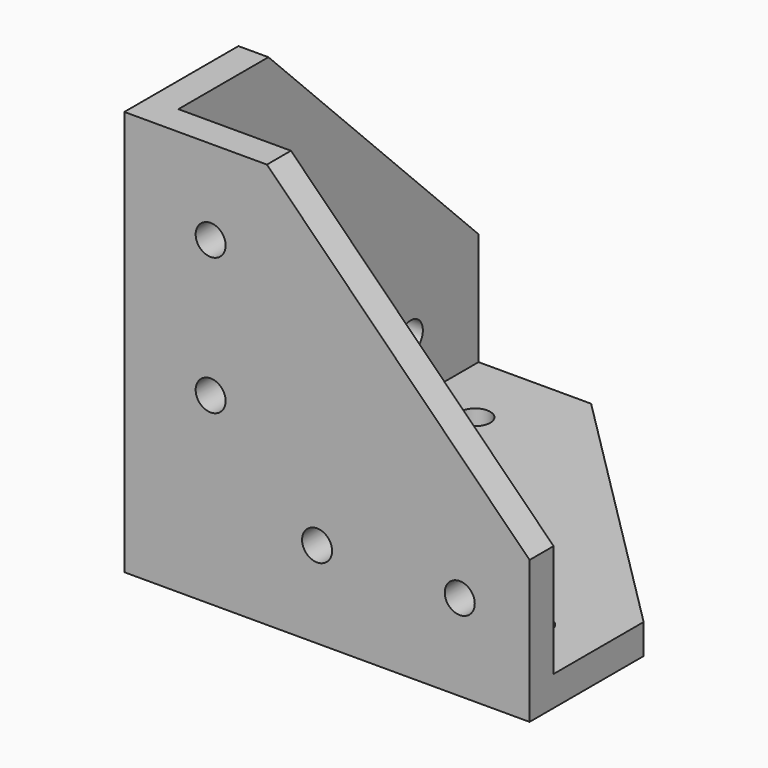
from build123d import *

# Parameters (mm, degrees)
F0_R     = 2
F1_DEPTH = 4
F2_R     = 2
F3_DEPTH = 4
F4_R     = 2
F5_DEPTH = 4


with BuildPart() as f1:
    # F0 (on Top) → F1 (new body)
    with BuildSketch(Plane.XY):
        Polygon((15, 50), (0, 50), (-4, 50), (-4, 0), (-4, -4), (50, -4), (50, 0), (50, 15), align=None)
        with Locations((26.219012, 7.5)):
            Circle(F0_R, mode=Mode.SUBTRACT)
        with Locations((41.652899, 7.5)):
            Circle(F0_R, mode=Mode.SUBTRACT)
        with Locations((7.5, 24.26653)):
            Circle(F0_R, mode=Mode.SUBTRACT)
        with Locations((7.5, 40.072314)):
            Circle(F0_R, mode=Mode.SUBTRACT)
    extrude(amount=F1_DEPTH)

    # F2 (on face) → F3 (join)
    with BuildSketch(Plane.XZ.offset(4)):
        Polygon((-4, 54), (-4, 4), (50, 4), (50, 19), (15, 54), align=None)
        with Locations((21.682408, 11.5)):
            Circle(F2_R, mode=Mode.SUBTRACT)
        with Locations((7.5, 24.480278)):
            Circle(F2_R, mode=Mode.SUBTRACT)
        with Locations((40.694896, 11.5)):
            Circle(F2_R, mode=Mode.SUBTRACT)
        with Locations((7.5, 42.723257)):
            Circle(F2_R, mode=Mode.SUBTRACT)
    extrude(amount=-F3_DEPTH)

    # F4 (on face) → F5 (join)
    with BuildSketch(Plane(origin=(-4, 0, 0), x_dir=(0, -1, 0), z_dir=(-1, 0, 0))):
        Polygon((-50, 0), (0, 0), (0, 54), (-15, 54), (-50, 19), align=None)
        with Locations((-38.723257, 11.5)):
            Circle(F4_R, mode=Mode.SUBTRACT)
        with Locations((-20.480278, 11.5)):
            Circle(F4_R, mode=Mode.SUBTRACT)
        with Locations((-7.5, 25.682408)):
            Circle(F4_R, mode=Mode.SUBTRACT)
        with Locations((-7.5, 44.694896)):
            Circle(F4_R, mode=Mode.SUBTRACT)
    extrude(amount=-F5_DEPTH)


solid = f1.part
